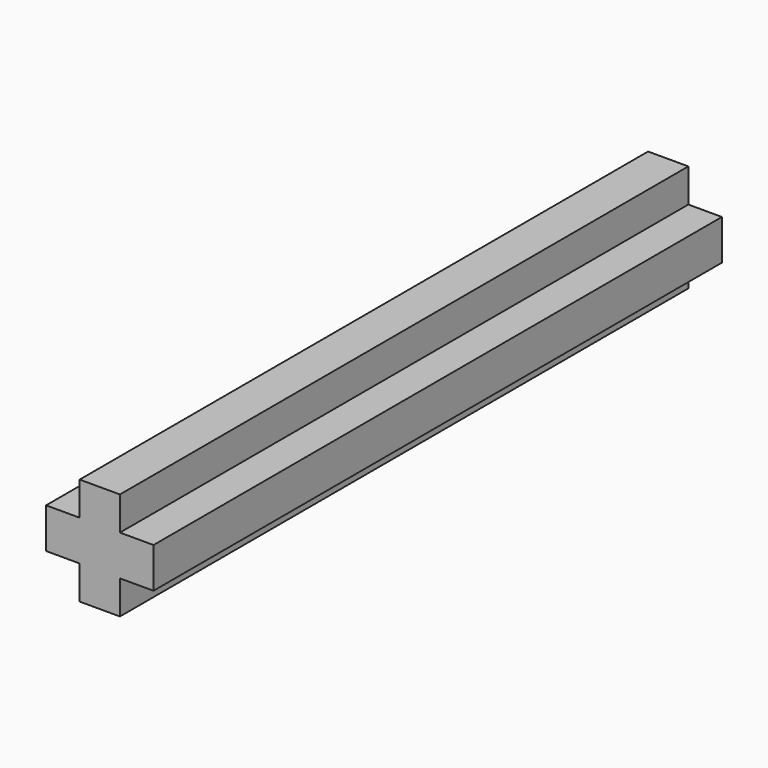
from build123d import *

# Parameters (mm, degrees)
F0_W     = 0.89
F0_H     = 0.89
F1_DEPTH = 15.705


with BuildPart() as f1:
    # F0 (on Front) → F1 (new body, symmetric)
    with BuildSketch(Plane.XZ):
        Polygon((-0.89, 0.89), (-2.375, 0.89), (-2.375, -0.89), (-0.89, -0.89), (-0.89, 0), align=None)
        Polygon((-0.89, 2.375), (-0.89, 0.89), (0, 0.89), (0.89, 0.89), (0.89, 2.375), align=None)
        with Locations((-0.445, 0.445)):
            Rectangle(F0_W, F0_H)
        with Locations((0.445, 0.445)):
            Rectangle(F0_W, F0_H)
        with Locations((-0.445, -0.445)):
            Rectangle(F0_W, F0_H)
        Polygon((0, -0.89), (-0.89, -0.89), (-0.89, -2.375), (0.89, -2.375), (0.89, -0.89), align=None)
        Polygon((2.375, 0.89), (0.89, 0.89), (0.89, 0), (0.89, -0.89), (2.375, -0.89), align=None)
        with Locations((0.445, -0.445)):
            Rectangle(F0_W, F0_H)
    extrude(amount=F1_DEPTH, both=True)


solid = f1.part
